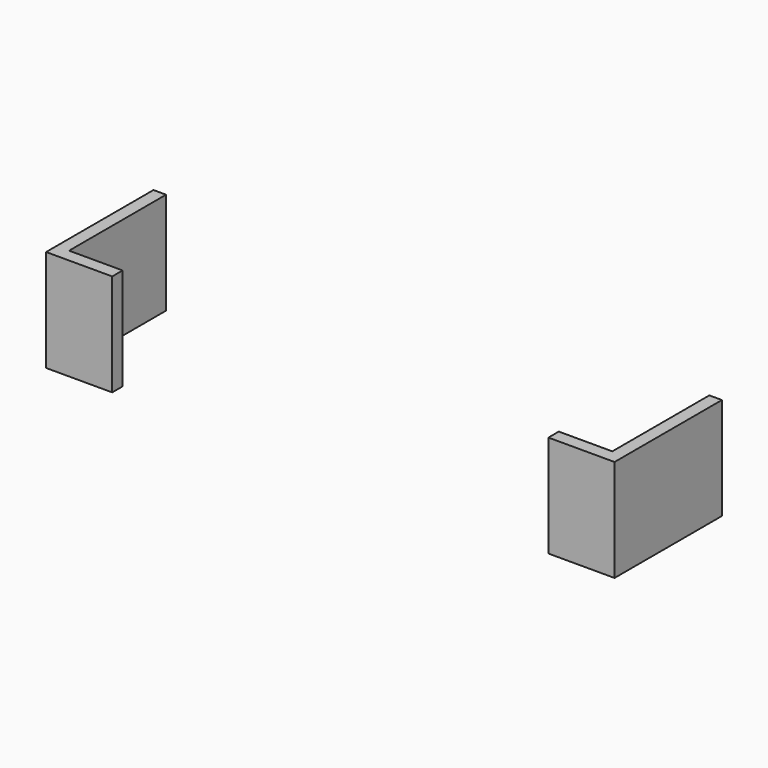
from build123d import *

# Parameters (mm, degrees)
F1_DEPTH = 25
F2_DEPTH = 25


with BuildPart() as f1:
    # F0 (on Top) → F1 (new body)
    with BuildSketch(Plane.XY):
        Polygon((-69.593027, 32.868728), (-69.593027, 0), (-53.399637, 0), (-53.399637, 3.180845), (-66.508569, 3.180845), (-66.508569, 26.121482), (-66.508569, 29.591495), (-66.508569, 32.868728), align=None)
    extrude(amount=F1_DEPTH)


with BuildPart() as f2:
    # F0 (on Top) → F2 (new body)
    with BuildSketch(Plane.XY):
        Polygon((69.593027, 32.868728), (66.508569, 32.868728), (66.508569, 29.398715), (66.508569, 26.121482), (66.508569, 3.180845), (53.399637, 3.180845), (53.399637, 0), (69.593027, 0), align=None)
    extrude(amount=F2_DEPTH)


solid = Compound([f1.part, f2.part])
